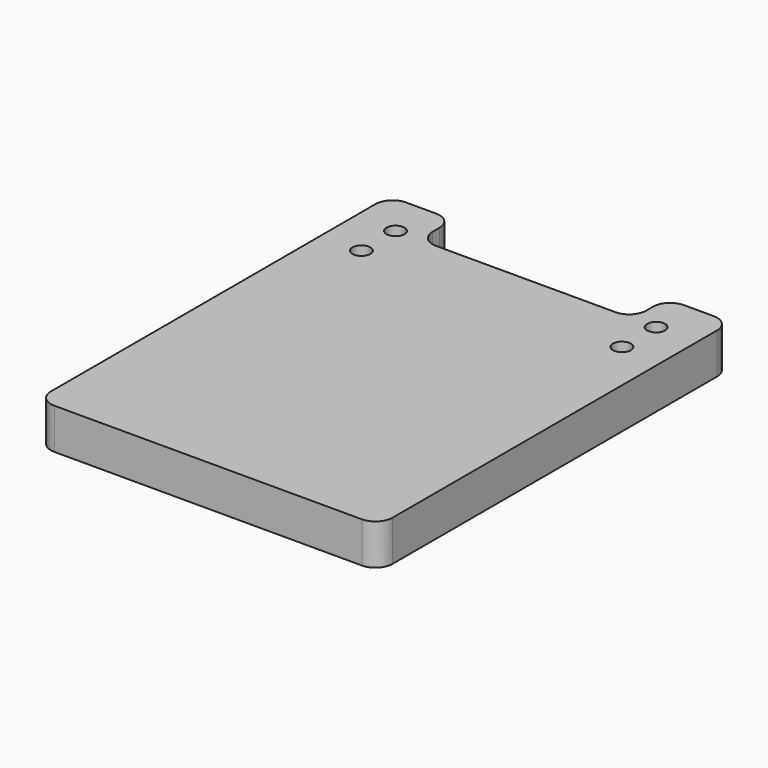
from build123d import *

# Parameters (mm, degrees)
F0_R     = 2.1
F1_DEPTH = 9.525
F2_SIZE2 = 2
F2_SIZE  = 2
F3_W     = 50
F3_H     = 10
F4_DEPTH = 25
F5_R     = 4
F6_R     = 4


with BuildPart() as f1:
    # F0 (on Top) → F1 (new body)
    with BuildSketch(Plane.XY):
        with BuildLine():
            ThreePointArc((40, 47.5), (38.8284271247, 50.3284271247), (36, 51.5))
            Line((36, 51.5), (-36, 51.5))
            ThreePointArc((-36, 51.5), (-38.8284271247, 50.3284271247), (-40, 47.5))
            Line((-40, 47.5), (-40, -47.5))
            ThreePointArc((-40, -47.5), (-38.8284271247, -50.3284271247), (-36, -51.5))
            Line((-36, -51.5), (36, -51.5))
            ThreePointArc((36, -51.5), (38.8284271247, -50.3284271247), (40, -47.5))
            Line((40, -47.5), (40, 47.5))
        make_face()
        with Locations((-30.5, 31.5)):
            Circle(F0_R, mode=Mode.SUBTRACT)
        with Locations((-30.5, 41.5)):
            Circle(F0_R, mode=Mode.SUBTRACT)
        with Locations((30.5, 31.5)):
            Circle(F0_R, mode=Mode.SUBTRACT)
        with Locations((30.5, 41.5)):
            Circle(F0_R, mode=Mode.SUBTRACT)
    extrude(amount=F1_DEPTH)

    # F2
    f2_edges = [f1.edges().sort_by_distance(p)[0] for p in [
        (28.4, 41.5, 0),
        (28.4, 31.5, 0),
        (-32.6, 31.5, 0),
        (-32.6, 41.5, 0),
    ]]
    chamfer(f2_edges, length=F2_SIZE, length2=F2_SIZE2)

    # F3 (on face) → F4 (cut)
    with BuildSketch(Plane.XY.offset(9.525)):
        with Locations((0, 46.5)):
            Rectangle(F3_W, F3_H)
    extrude(amount=-F4_DEPTH, mode=Mode.SUBTRACT)

    # F5
    f5_edges = [f1.edges().sort_by_distance(p)[0] for p in [
        (-25, 51.5, 4.7625),
        (25, 51.5, 4.7625),
    ]]
    fillet(f5_edges, radius=F5_R)

    # F6
    f6_edges = [f1.edges().sort_by_distance(p)[0] for p in [
        (25, 41.5, 4.7625),
        (-25, 41.5, 4.7625),
    ]]
    fillet(f6_edges, radius=F6_R)


solid = f1.part
